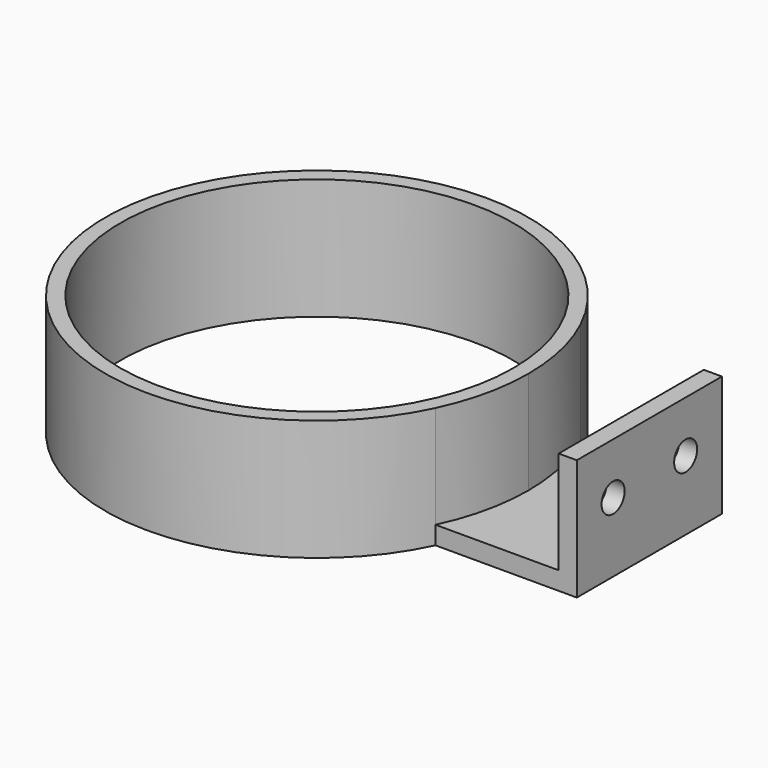
from build123d import *

# Parameters (mm, degrees)
F0_R     = 65
F1_DEPTH = 40
F2_DEPTH = 6
F3_DEPTH = 40
F4_R     = 4.7625
F5_DEPTH = 6


with BuildPart() as f1:
    # F0 (on Top) → F1 (new body)
    with BuildSketch(Plane.XY):
        with BuildLine():
            ThreePointArc((63.245553, -30), (68.290514, -15.375488), (70, 0))
            ThreePointArc((70, 0), (68.290514, 15.375488), (63.245553, 30))
            ThreePointArc((63.245553, 30), (-70, 0), (63.245553, -30))
        make_face()
        Circle(F0_R, mode=Mode.SUBTRACT)
    extrude(amount=F1_DEPTH)

    # F0 (on Top) → F2 (join)
    with BuildSketch(Plane.XY):
        with BuildLine():
            ThreePointArc((63.245553, 30), (68.290514, 15.375488), (70, 0))
            ThreePointArc((70, 0), (68.290514, -15.375488), (63.245553, -30))
            Line((63.245553, -30), (104, -30))
            Line((104, -30), (104, 30))
            Line((104, 30), (63.245553, 30))
        make_face()
    extrude(amount=F2_DEPTH)

    # F0 (on Top) → F3 (join)
    with BuildSketch(Plane.XY):
        Polygon((110, 30), (104, 30), (104, -30), (110, -30), (110, 0), align=None)
    extrude(amount=F3_DEPTH)

    # F4 (on face) → F5 (cut)
    with BuildSketch(Plane.YZ.offset(110)):
        with Locations((-15, 23)):
            Circle(F4_R)
        with Locations((15, 23)):
            Circle(F4_R)
    extrude(amount=-F5_DEPTH, mode=Mode.SUBTRACT)


solid = f1.part
